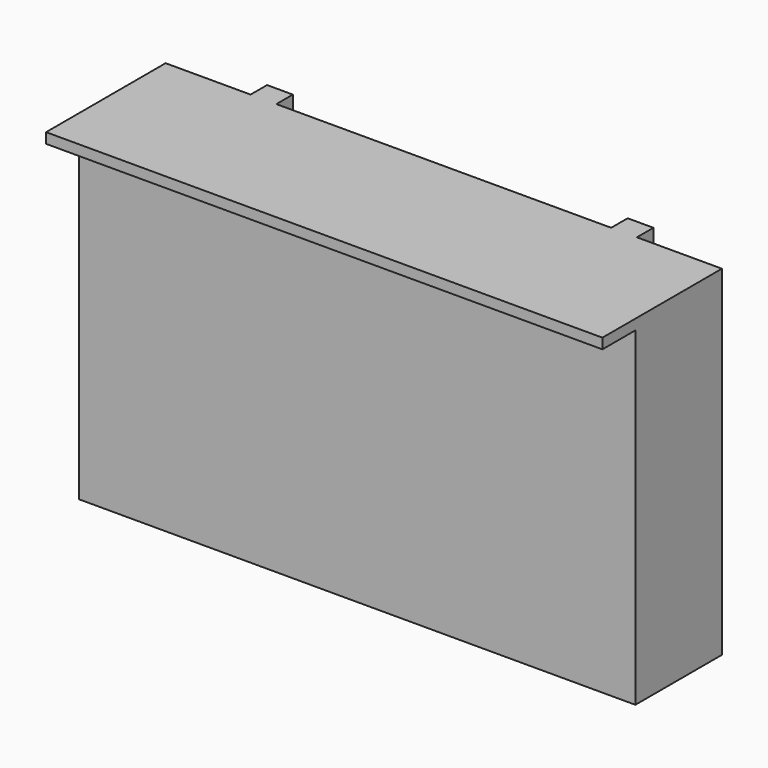
from build123d import *

# Parameters (mm, degrees)
F0_W     = 5
F0_H     = 66
F0_W_2   = 16.5
F0_W_3   = 65
F1_DEPTH = 21
F2_DEPTH = 4
F3_W     = 108
F3_H     = 2
F4_DEPTH = 8


with BuildPart() as f1:
    # F0 (on Front) → F1 (new body)
    with BuildSketch(Plane.XZ):
        with Locations((-35, -33)):
            Rectangle(F0_W, F0_H)
        with Locations((-45.75, -33)):
            Rectangle(F0_W_2, F0_H)
        with Locations((0, -33)):
            Rectangle(F0_W_3, F0_H)
        with Locations((35, -33)):
            Rectangle(F0_W, F0_H)
        with Locations((45.75, -33)):
            Rectangle(F0_W_2, F0_H)
    extrude(amount=F1_DEPTH)

    # F0 (on Front) → F2 (join)
    with BuildSketch(Plane.XZ):
        with Locations((35, -33)):
            Rectangle(F0_W, F0_H)
        with Locations((-35, -33)):
            Rectangle(F0_W, F0_H)
    extrude(amount=-F2_DEPTH)

    # F3 (on face) → F4 (join)
    with BuildSketch(Plane.XZ.offset(21)):
        with Locations((0, -1)):
            Rectangle(F3_W, F3_H)
    extrude(amount=F4_DEPTH)


solid = f1.part
